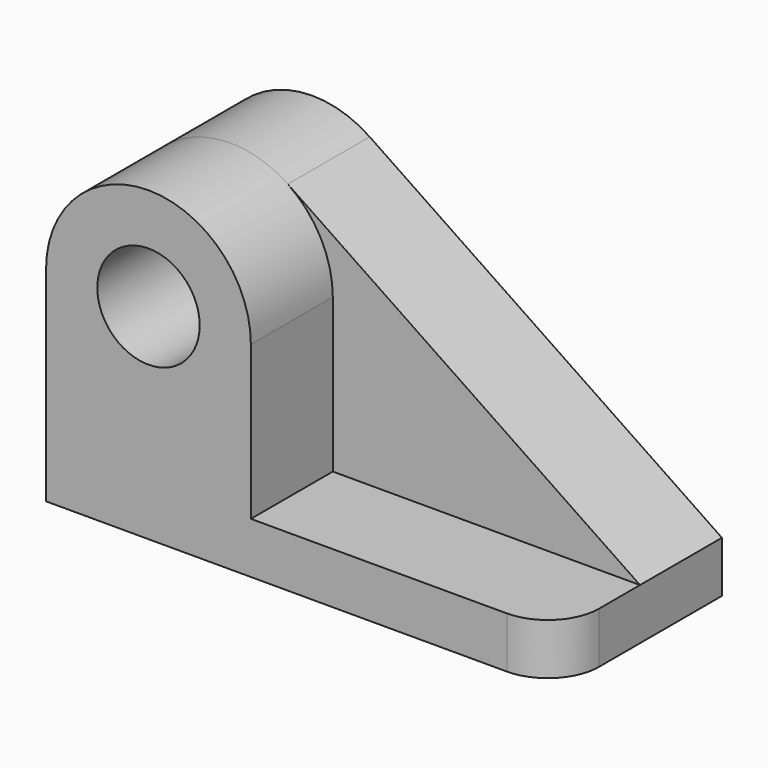
from build123d import *

# Parameters (mm, degrees)
F0_R     = 12.7
F1_DEPTH = 25.4
F2_R     = 12.7
F3_DEPTH = 25.4
F4_R     = 12.7


with BuildPart() as f1:
    # F0 (on Front) → F1 (new body)
    with BuildSketch(Plane.XZ):
        with BuildLine():
            Line((54.7150199872, 2.393848594), (-32.6471068847, 61.5281769357))
            ThreePointArc((-32.6471068847, 61.5281769357), (-58.7912393445, 62.9304479069), (-72.2849800128, 40.493848594))
            Line((-72.2849800128, 40.493848594), (-72.2849800128, -10.306151406))
            Line((-72.2849800128, -10.306151406), (54.7150199872, -10.306151406))
            Line((54.7150199872, -10.306151406), (54.7150199872, 2.393848594))
        make_face()
        with Locations((-46.8849800128, 40.493848594)):
            Circle(F0_R, mode=Mode.SUBTRACT)
    extrude(amount=F1_DEPTH)

    # F2 (on face) → F3 (join)
    with BuildSketch(Plane.XZ.offset(25.4)):
        with BuildLine():
            ThreePointArc((-72.2849800128, 40.493848594), (-46.8849800128, 15.093848594), (-21.4849800128, 40.493848594))
            ThreePointArc((-21.4849800128, 40.493848594), (-46.8849800128, 65.893848594), (-72.2849800128, 40.493848594))
        make_face()
        with Locations((-46.8849800128, 40.493848594)):
            Circle(F2_R, mode=Mode.SUBTRACT)
        with BuildLine():
            Line((-21.4849800128, 2.393848594), (-21.4849800128, 40.493848594))
            ThreePointArc((-21.4849800128, 40.493848594), (-46.8849800128, 15.093848594), (-72.2849800128, 40.493848594))
            Line((-72.2849800128, 40.493848594), (-72.2849800128, 2.393848594))
            Line((-72.2849800128, 2.393848594), (-21.4849800128, 2.393848594))
        make_face()
        Polygon((54.7150199872, 2.393848594), (-21.4849800128, 2.393848594), (-72.2849800128, 2.393848594), (-72.2849800128, -10.306151406), (54.7150199872, -10.306151406), align=None)
    extrude(amount=F3_DEPTH)

    # F4
    f4_edges = [f1.edges().sort_by_distance(p)[0] for p in [
        (54.71502, -50.8, -3.956151),
    ]]
    fillet(f4_edges, radius=F4_R)


solid = f1.part
